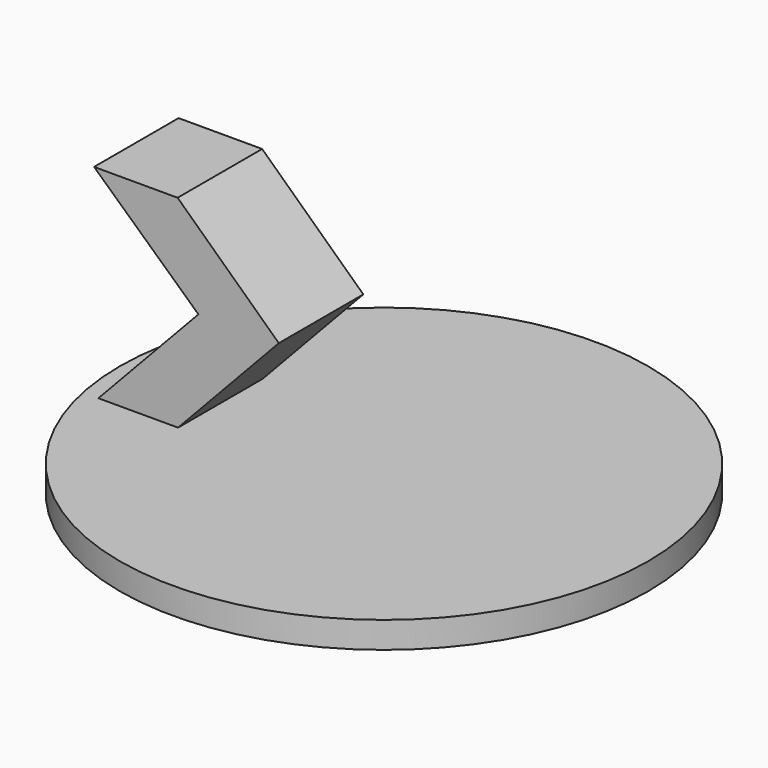
from build123d import *

# Parameters (mm, degrees)
F2_R     = 50
F3_DEPTH = 5
F6_DEPTH = 10


with BuildPart() as f3:
    # F2 (on face) → F3 (new body)
    with BuildSketch(Plane.XY):
        Circle(F2_R)
    extrude(amount=F3_DEPTH)

    # F5 (on face) → F6 (join, symmetric)
    with BuildSketch(Plane.XZ):
        Polygon((-46.88603, 43.289871), (-27.134711, 25.138109), (-46.067975, 5), (-30.987105, 5), (-11.916471, 25.284221), (-31.067937, 43.289871), align=None)
    extrude(amount=F6_DEPTH, both=True)


solid = f3.part
